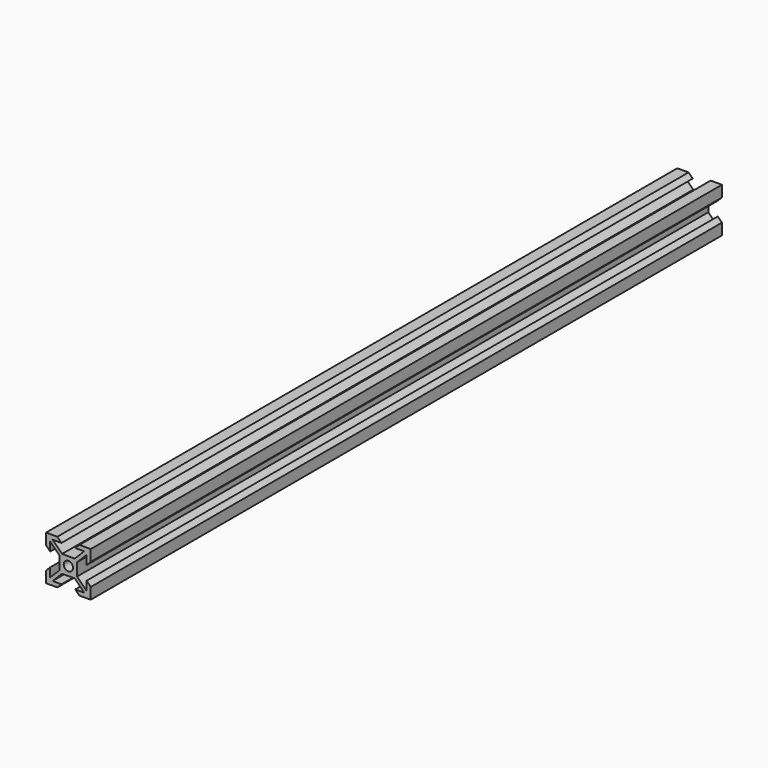
from build123d import *

# Parameters (mm, degrees)
SKETCH_R  = 2.1
PAD_DEPTH = 353.5


with BuildPart() as part:
    # Sketch → Pad (new body)
    with BuildSketch(Plane.XZ):
        Polygon((0, 0), (5.05, 0), (6.9, 1.85), (2.91066, 1.85), (7.16066, 6.1), (12.83934, 6.1), (17.08934, 1.85), (13.1, 1.85), (14.95, 0), (20, 0), (20, 5.05), (18.15, 6.9), (18.15, 2.91066), (13.9, 7.16066), (13.9, 12.83934), (18.15, 17.08934), (18.15, 13.1), (20, 14.95), (20, 20), (14.95, 20), (13.1, 18.15), (17.08934, 18.15), (12.83934, 13.9), (7.16066, 13.9), (2.91066, 18.15), (6.9, 18.15), (5.05, 20), (0, 20), (0, 14.95), (1.85, 13.1), (1.85, 17.08934), (6.1, 12.83934), (6.1, 7.16066), (1.85, 2.91066), (1.85, 6.9), (0, 5.05), align=None)
        with Locations((10, 10)):
            Circle(SKETCH_R, mode=Mode.SUBTRACT)
    extrude(amount=PAD_DEPTH)


solid = part.part
